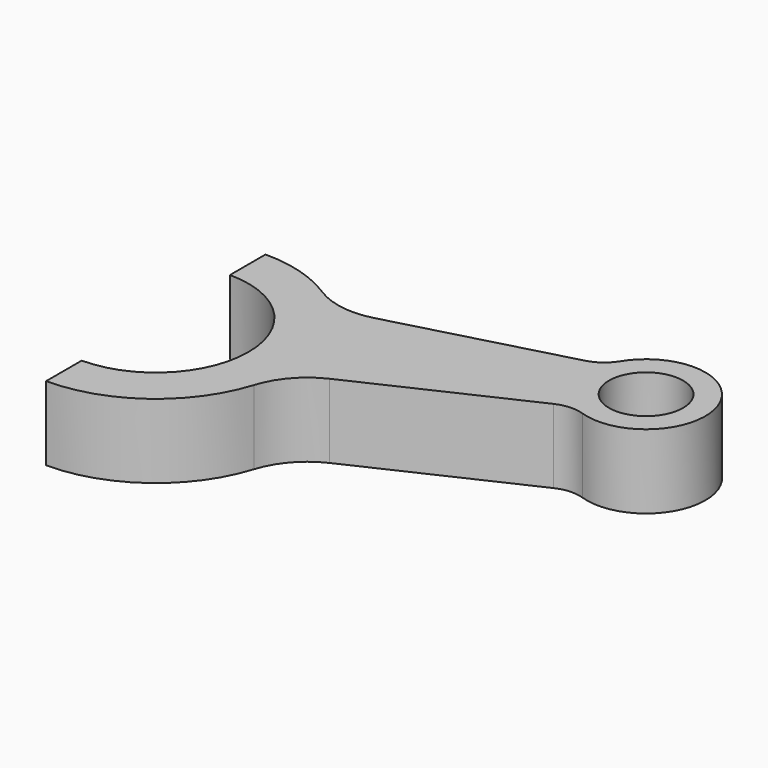
from build123d import *

# Parameters (mm, degrees)
F0_R          = 10
F1_DEPTH      = 10
F1_DEPTH_BACK = 10
F2_R          = 20
F3_R          = 10


with BuildPart() as f1:
    # F0 (on Top) → F1 (new body, two sides)
    with BuildSketch(Plane.XY) as f1_sk:
        with BuildLine():
            ThreePointArc((0, 25), (25, 0), (0, -25))
            Line((0, -25), (0, -37))
            ThreePointArc((0, -37), (25.050639293, -27.2298635878), (36.8716481479, -3.0792146493))
            Line((36.8716481479, -3.0792146493), (94.1099400271, 23.6114391937))
            ThreePointArc((94.1099400271, 23.6114391937), (117.4615775982, 42.7525179157), (87.2695371606, 42.4052916094))
            Line((87.2695371606, 42.4052916094), (26.2660401482, 26.0594538495))
            ThreePointArc((26.2660401482, 26.0594538495), (14.2267390426, 34.1555251199), (0, 37))
            Line((0, 37), (0, 25))
        make_face()
        with Locations((102.4264956657, 37.2801956225)):
            Circle(F0_R, mode=Mode.SUBTRACT)
    extrude(amount=-F1_DEPTH)
    extrude(f1_sk.sketch, amount=F1_DEPTH_BACK)

    # F2
    f2_edges = [f1.edges().sort_by_distance(p)[0] for p in [
        (26.26604, 26.059454, 0),
        (36.871648, -3.079215, 0),
    ]]
    fillet(f2_edges, radius=F2_R)

    # F3
    f3_edges = [f1.edges().sort_by_distance(p)[0] for p in [
        (87.269537, 42.405292, 0),
        (94.10994, 23.611439, 0),
    ]]
    fillet(f3_edges, radius=F3_R)


solid = f1.part
